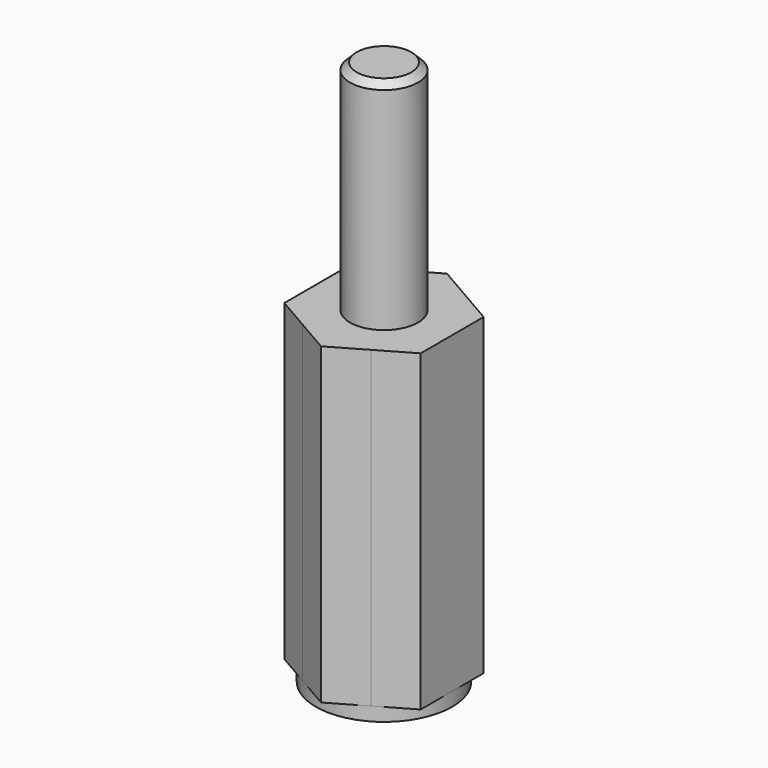
from build123d import *

# Parameters (mm, degrees)
F0_R     = 2.5
F1_DEPTH = 0.5
F3_DEPTH = 11.5
F4_R     = 1.25
F5_DEPTH = 8
F6_SIZE  = 0.25
F7_R     = 1.25
F8_DEPTH = 10


with BuildPart() as f1:
    # F0 (on Top) → F1 (new body)
    with BuildSketch(Plane.XY):
        Circle(F0_R)
    extrude(amount=F1_DEPTH)

    # F2 (on face) → F3 (join)
    with BuildSketch(Plane.XY.offset(0.5)):
        with BuildLine():
            Line((2.5, 0), (2.5, 1.443375673))
            Line((2.5, 1.443375673), (1.2500000021, 2.1650635082))
            ThreePointArc((1.2500000021, 2.1650635082), (2.1650635101, 1.2499999989), (2.5, 0))
        make_face()
        with BuildLine():
            Line((2.5, -1.443375673), (2.5, 0))
            ThreePointArc((2.5, 0), (2.1650635101, -1.2499999989), (1.2500000021, -2.1650635082))
            Line((1.2500000021, -2.1650635082), (2.5, -1.443375673))
        make_face()
        with BuildLine():
            Line((0, -2.8867513459), (1.2500000021, -2.1650635082))
            ThreePointArc((1.2500000021, -2.1650635082), (-1.35e-08, -2.5), (-1.2500000255, -2.1650634947))
            Line((-1.2500000255, -2.1650634947), (0, -2.8867513459))
        make_face()
        with BuildLine():
            Line((-2.5, -1.443375673), (-1.2500000255, -2.1650634947))
            ThreePointArc((-1.2500000255, -2.1650634947), (-2.1650635168, -1.2499999872), (-2.5, 0))
            Line((-2.5, 0), (-2.5, -1.443375673))
        make_face()
        with BuildLine():
            ThreePointArc((-2.5, 0), (-2.1650634924, 1.2500000296), (-1.2499999408, 2.1650635436))
            Line((-1.2499999408, 2.1650635436), (-2.5, 1.443375673))
            Line((-2.5, 1.443375673), (-2.5, 0))
        make_face()
        with BuildLine():
            ThreePointArc((1.2500000021, -2.1650635082), (2.1650635101, -1.2499999989), (2.5, 0))
            ThreePointArc((2.5, 0), (2.1650635101, 1.2499999989), (1.2500000021, 2.1650635082))
            ThreePointArc((1.2500000021, 2.1650635082), (3.54e-08, 2.5), (-1.2499999408, 2.1650635436))
            ThreePointArc((-1.2499999408, 2.1650635436), (-2.1650634924, 1.2500000296), (-2.5, 0))
            ThreePointArc((-2.5, 0), (-2.1650635168, -1.2499999872), (-1.2500000255, -2.1650634947))
            ThreePointArc((-1.2500000255, -2.1650634947), (-1.35e-08, -2.5), (1.2500000021, -2.1650635082))
        make_face()
        with BuildLine():
            ThreePointArc((-1.2499999408, 2.1650635436), (3.54e-08, 2.5), (1.2500000021, 2.1650635082))
            Line((1.2500000021, 2.1650635082), (0, 2.8867513459))
            Line((0, 2.8867513459), (-1.2499999408, 2.1650635436))
        make_face()
    extrude(amount=F3_DEPTH)

    # F4 (on face) → F5 (join)
    with BuildSketch(Plane.XY.offset(12)):
        Circle(F4_R)
    extrude(amount=F5_DEPTH)

    # F6
    f6_edges = [f1.edges().sort_by_distance(p)[0] for p in [
        (-1.25, 0, 20),
    ]]
    chamfer(f6_edges, length=F6_SIZE)

    # F7 (on face) → F8 (cut)
    with BuildSketch(Plane(origin=(0, 0, 0), x_dir=(1, 0, 0), z_dir=(0, 0, -1))):
        Circle(F7_R)
    extrude(amount=-F8_DEPTH, mode=Mode.SUBTRACT)


solid = f1.part
